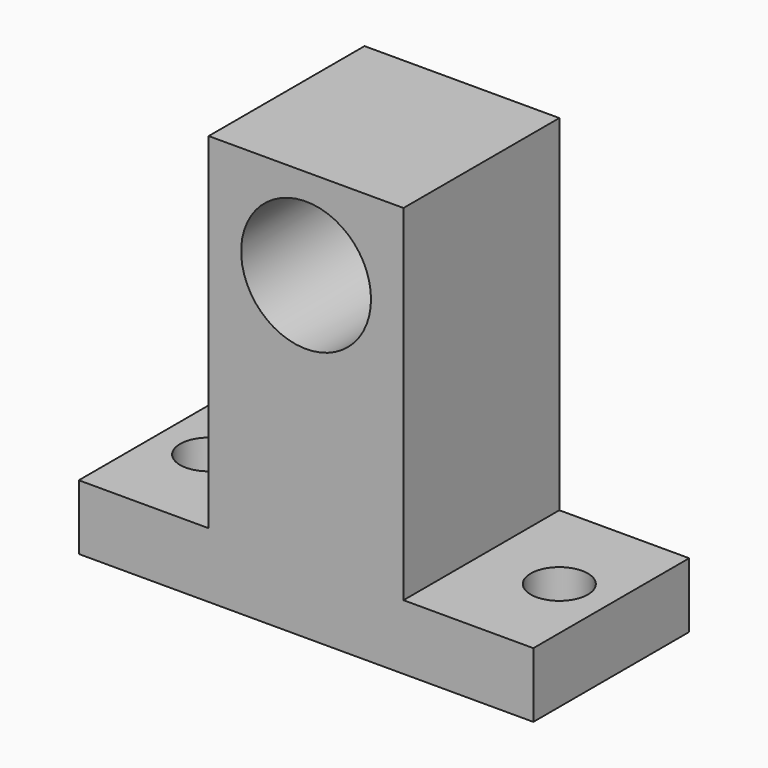
from build123d import *

# Parameters (mm, degrees)
F1_DEPTH       = 30
F3_D           = 8.9
F3_CBORE_D     = 20
F3_CBORE_DEPTH = 20
F5_D           = 8.8


with BuildPart() as f1:
    # F0 (on Front) → F1 (new body)
    with BuildSketch(Plane.XZ):
        Polygon((0, 10), (0, 0), (70, 0), (70, 10), (50, 10), (50, 63.1707229285), (20, 63.1707229285), (20, 10), align=None)
    extrude(amount=F1_DEPTH)

    # F3 (through all)
    with Locations(Plane.XZ.offset(30)):
        with Locations((35, 49.1707229285)):
            CounterBoreHole(F3_D / 2, F3_CBORE_D / 2, F3_CBORE_DEPTH)

    # F5 (through all)
    with Locations(Plane(origin=(0, 0, 0), x_dir=(1, 0, 0), z_dir=(0, 0, -1))):
        with Locations((8, 15), (62, 15)):
            Hole(F5_D / 2)


solid = f1.part
